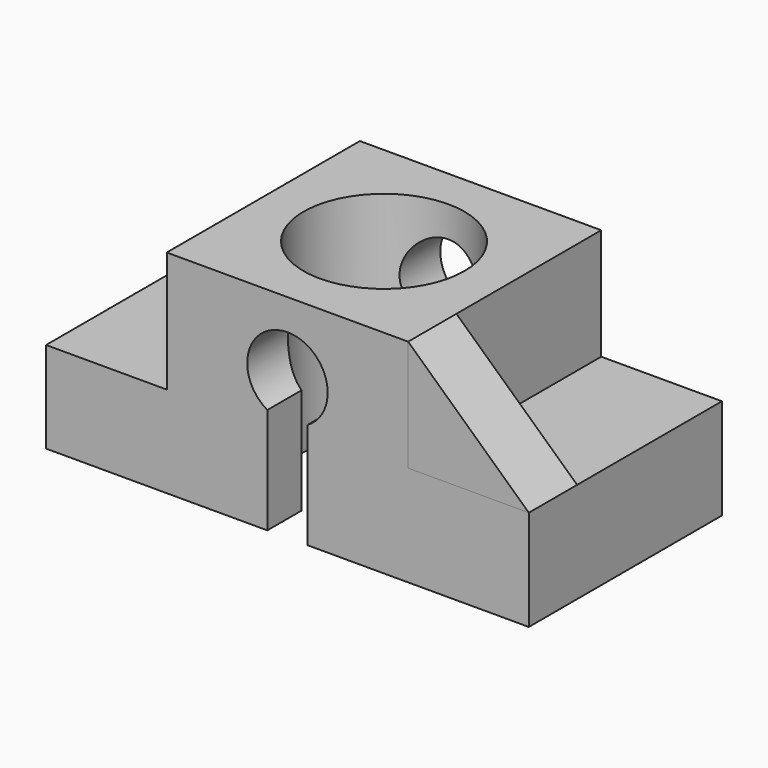
from build123d import *

# Parameters (mm, degrees)
F1_DEPTH = 600
F2_R     = 200
F3_DEPTH = 526.795919
F5_DEPTH = 150


with BuildPart() as f1:
    # F0 (on Front) → F1 (new body)
    with BuildSketch(Plane.XZ):
        with BuildLine():
            Line((300, -13.39746), (300, 263.39746))
            Line((300, 263.39746), (-300, 263.39746))
            Line((-300, 263.39746), (-300, -36.60254))
            Line((-300, -36.60254), (-600, -36.60254))
            Line((-600, -36.60254), (-600, -263.39746))
            Line((-600, -263.39746), (-50, -263.39746))
            Line((-50, -263.39746), (-50, 0))
            ThreePointArc((-50, 0), (0, 186.60254), (50, 0))
            Line((50, 0), (50, -263.39746))
            Line((50, -263.39746), (600, -263.39746))
            Line((600, -263.39746), (600, -13.39746))
            Line((600, -13.39746), (300, -13.39746))
        make_face()
    extrude(amount=F1_DEPTH)

    # F2 (on face) → F3 (cut, through all)
    with BuildSketch(Plane.XY.offset(263.39746)):
        with Locations((0, -300)):
            Circle(F2_R)
    extrude(amount=-F3_DEPTH, mode=Mode.SUBTRACT)


with BuildPart() as f5:
    # F4 (on face) → F5 (new body)
    with BuildSketch(Plane.XZ.offset(600)):
        Polygon((600, -13.39746), (300, 263.39746), (300, -13.39746), align=None)
    extrude(amount=-F5_DEPTH)


solid = Compound([f1.part, f5.part])
